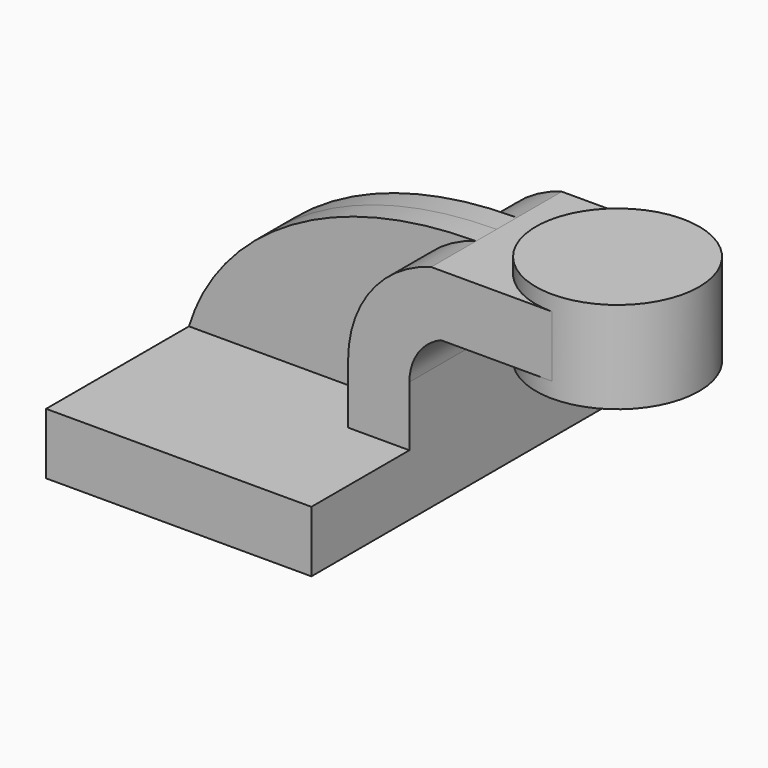
from build123d import *

# Parameters (mm, degrees)
F1_DEPTH = 63.5
F2_DEPTH = 25.4
F0_W     = 25.4
F0_H     = 19.05
F3_DEPTH = 25.4
F4_DEPTH = 7.9375


with BuildPart() as f1:
    # F0 (on Front) → F1 (new body, symmetric)
    with BuildSketch(Plane.XZ):
        Polygon((22.225, 9.525), (-41.275, 9.525), (-41.275, -9.525), (41.275, -9.525), (41.275, 9.525), align=None)
    extrude(amount=F1_DEPTH, both=True)

    # F0 (on Front) → F2 (join, symmetric)
    with BuildSketch(Plane.XZ):
        with BuildLine():
            Line((22.225, 28.1995688956), (22.225, 9.525))
            Line((22.225, 9.525), (41.275, 9.525))
            Line((41.275, 9.525), (41.275, 28.1995688956))
            ThreePointArc((41.275, 28.1995688956), (43.9569999969, 37.0290862051), (51.0967796432, 42.8752))
            Line((51.0967796432, 42.8752), (60.325, 42.8752))
            Line((60.325, 42.8752), (60.325, 61.9252))
            Line((60.325, 61.9252), (48.076002446, 61.9252))
            ThreePointArc((48.076002446, 61.9252), (29.431188792, 49.4462893534), (22.225, 28.1995688956))
        make_face()
    extrude(amount=F2_DEPTH, both=True)

    # F0 (on Front) → F3 (join, symmetric)
    with BuildSketch(Plane.XZ):
        with Locations((73.025, 52.4002)):
            Rectangle(F0_W, F0_H)
    extrude(amount=F3_DEPTH, both=True)

    # F0 (on Front) → F4 (join, symmetric)
    with BuildSketch(Plane.XZ):
        with BuildLine():
            add(Edge.make_bspline(
                [(-41.275, 9.525), (-32.5510911644, 38.347762078), (0, 61.8160702288), (48.076002446, 61.9252)],
                knots=[0, 0, 0, 0, 103.5827331081, 103.5827331081, 103.5827331081, 103.5827331081], degree=3))
            Line((-41.275, 9.525), (22.225, 9.525))
            Line((22.225, 9.525), (22.225, 28.1995688956))
            ThreePointArc((22.225, 28.1995688956), (29.431188792, 49.4462893534), (48.076002446, 61.9252))
        make_face()
    extrude(amount=F4_DEPTH, both=True)

    # F0 (on Front) → F5 (revolve)
    with BuildSketch(Plane.XZ):
        Polygon((85.725, 66.675), (85.725, 61.9252), (85.725, 42.8752), (85.725, 38.1), (111.125, 38.1), (111.125, 66.675), align=None)
    revolve(axis=Axis((85.725, 0, 52.3875), (0, 0, 1)))


solid = f1.part
